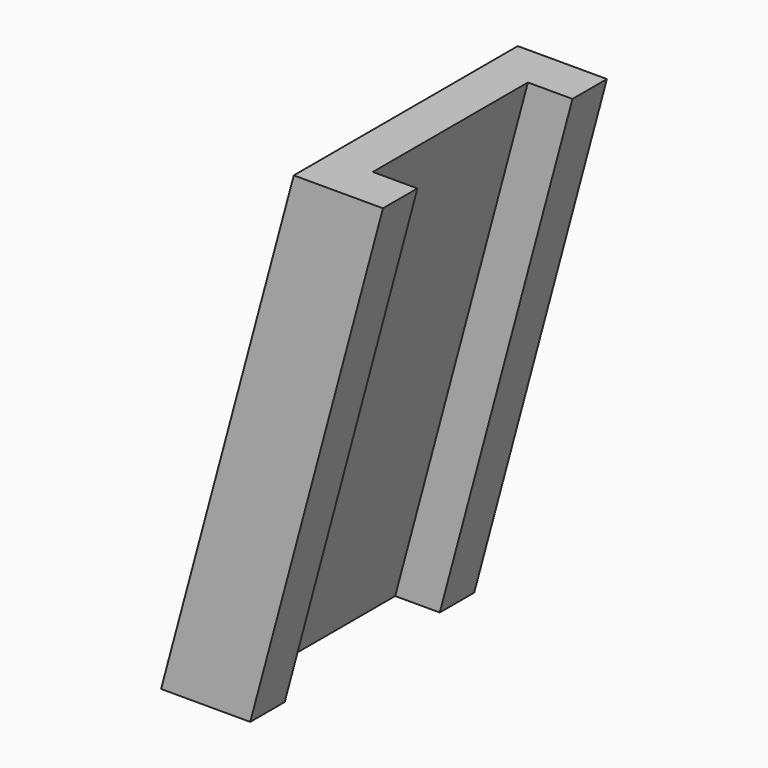
from build123d import *

# Parameters (mm, degrees)
SKETCH024_W                = 7
SKETCH024_H                = 2
SKETCH024_W_2              = 8
SKETCH024_H_2              = 4
EXTRUDE020_DEPTH           = 5
EXTRUDE020_DEPTH_BACK      = 14
EXTRUDE014_DEPTH           = 27
EXTRUDE014_PLACEMENT_ANGLE = 15


with BuildPart() as extrude020:
    # Sketch024 → Extrude020 (new body, two sides)
    with BuildSketch(Plane.XZ) as extrude020_sk:
        with Locations((13.5, 19)):
            Rectangle(SKETCH024_W, SKETCH024_H)
        with Locations((20, 45)):
            Rectangle(SKETCH024_W_2, SKETCH024_H_2)
    extrude(amount=EXTRUDE020_DEPTH)
    extrude(extrude020_sk.sketch, amount=-EXTRUDE020_DEPTH_BACK)


with BuildPart() as cut001:
    # Sketch018 → Extrude014 (new body)
    with BuildSketch(Plane.XY.offset(45)):
        Polygon((20, 9), (22, 9), (22, 11), (18, 11), (18, -2), (22, -2), (22, 0), (20, 0), align=None)
    extrude(amount=-EXTRUDE014_DEPTH)


with BuildPart() as cut001_1:
    # Extrude014 placement: moved
    add(cut001.part.moved(Location((-11, 0, 7))).rotate(Axis((-11, 0, 7), (0, 1, 0)), EXTRUDE014_PLACEMENT_ANGLE))

    # Cut001: cut Extrude020
    add(extrude020.part, mode=Mode.SUBTRACT)


solid = cut001_1.part
